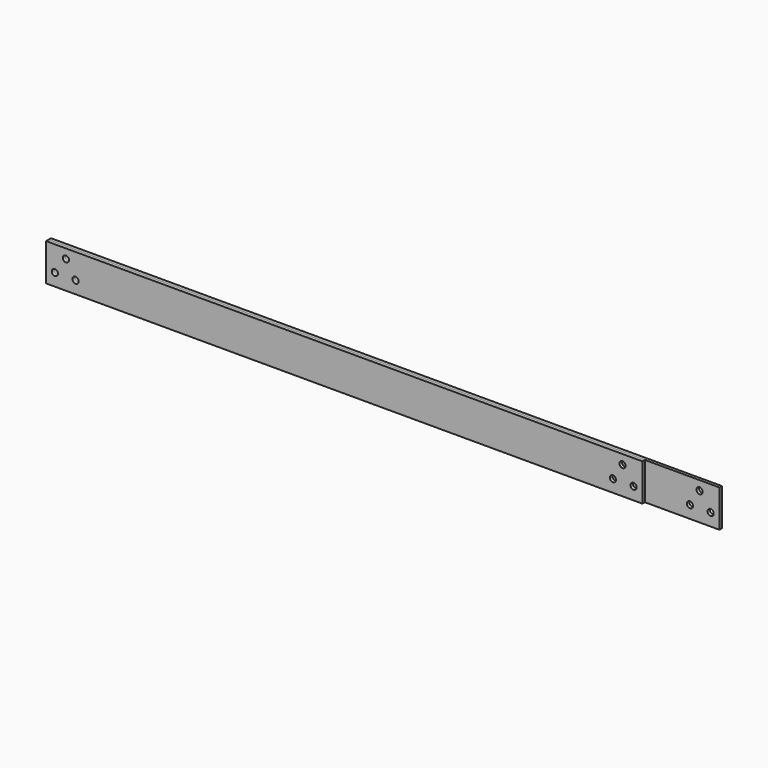
from build123d import *

# Parameters (mm, degrees)
F0_W     = 1219.2
F0_H     = 76.2
F1_DEPTH = 6.35
F2_R     = 6.35
F3_DEPTH = 6.351
F4_W     = 1371.6
F4_H     = 76.2
F4_R     = 6.35
F5_DEPTH = 6.35


with BuildPart() as f1:
    # F0 (on Front) → F1 (new body)
    with BuildSketch(Plane.XZ):
        with Locations((330.933747, 34.751241)):
            Rectangle(F0_W, F0_H)
    extrude(amount=F1_DEPTH)

    # F2 (on face) → F3 (cut, through all)
    with BuildSketch(Plane.XZ.offset(6.35)):
        with Locations((-238.167688, 53.801241)):
            Circle(F2_R)
        with Locations((-260.666891, 22.051241)):
            Circle(F2_R)
        with Locations((-218.333557, 22.051241)):
            Circle(F2_R)
        with Locations((900.035183, 53.801241)):
            Circle(F2_R)
        with Locations((880.201052, 22.051241)):
            Circle(F2_R)
        with Locations((922.534385, 22.051241)):
            Circle(F2_R)
    extrude(amount=-F3_DEPTH, mode=Mode.SUBTRACT)


with BuildPart() as f5:
    # F4 (on face) → F5 (new body)
    with BuildSketch(Plane(origin=(0, 0, 0), x_dir=(-1, 0, 0), z_dir=(0, 1, 0))):
        with Locations((-407.133747, 34.751241)):
            Rectangle(F4_W, F4_H)
        with Locations((-1074.934385, 22.051241)):
            Circle(F4_R, mode=Mode.SUBTRACT)
        with Locations((-1032.601052, 22.051241)):
            Circle(F4_R, mode=Mode.SUBTRACT)
        with Locations((218.333557, 22.051241)):
            Circle(F4_R, mode=Mode.SUBTRACT)
        with Locations((260.666891, 22.051241)):
            Circle(F4_R, mode=Mode.SUBTRACT)
        with Locations((-1052.435183, 53.801241)):
            Circle(F4_R, mode=Mode.SUBTRACT)
        with Locations((238.167688, 53.801241)):
            Circle(F4_R, mode=Mode.SUBTRACT)
    extrude(amount=F5_DEPTH)


solid = Compound([f1.part, f5.part])
